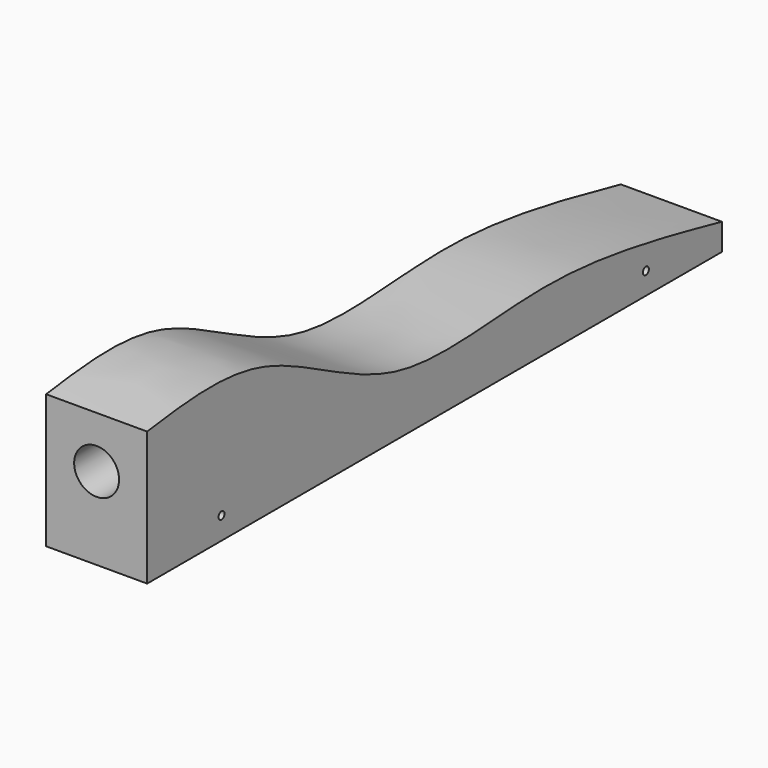
from build123d import *

# Parameters (mm, degrees)
F1_DEPTH = 21.43125
F2_R     = 9.525
F3_DEPTH = 50.8
F5_R     = 1.5875
F6_DEPTH = 42.8635


with BuildPart() as f1:
    # F0 (on Right) → F1 (new body, symmetric)
    with BuildSketch(Plane.YZ):
        Polygon((-152.4, 69.85), (-152.4, 0), (152.4, 0), (152.4, 19.05), align=None)
    extrude(amount=F1_DEPTH, both=True)

    # F2 (on face) → F3 (cut)
    with BuildSketch(Plane.XZ.offset(152.4)):
        with Locations((0, 34.925)):
            Circle(F2_R)
    extrude(amount=-F3_DEPTH, mode=Mode.SUBTRACT)

    # F5 (on face) → F6 (intersect, through all)
    with BuildSketch(Plane.YZ.offset(21.43125)):
        with BuildLine():
            add(Edge.make_bspline(
                [(-152.655094862, 56.7322559655), (-132.3676890025, 59.4289773932), (-89.2410218232, 65.1613597048), (-22.0359245092, 13.7816198384), (60.4108187674, 31.3446624512), (120.9237045217, 18.1393091317), (152.2278054019, 11.2589439377)],
                knots=[0, 0, 0, 0, 0.2216874912, 0.470872617, 0.7247310668, 1, 1, 1, 1], degree=3))
            Line((-152.655094862, 56.7322559655), (-152.4784472605, 0))
            add(Edge.make_bspline(
                [(152.2278054019, 0), (50.7752332916, -0.6741153582), (-50.9689694069, -0.1745952019), (-152.4784472605, 0)],
                knots=[0, 0, 0, 0, 304.7062526624, 304.7062526624, 304.7062526624, 304.7062526624], degree=3))
            Line((152.2278054019, 0), (152.2278054019, 11.2589439377))
        make_face()
        with Locations((-112.9887476563, 9.443979038)):
            Circle(F5_R, mode=Mode.SUBTRACT)
        with Locations((111.9343732924, 9.3155516815)):
            Circle(F5_R, mode=Mode.SUBTRACT)
    extrude(amount=-F6_DEPTH, mode=Mode.INTERSECT)


solid = f1.part
